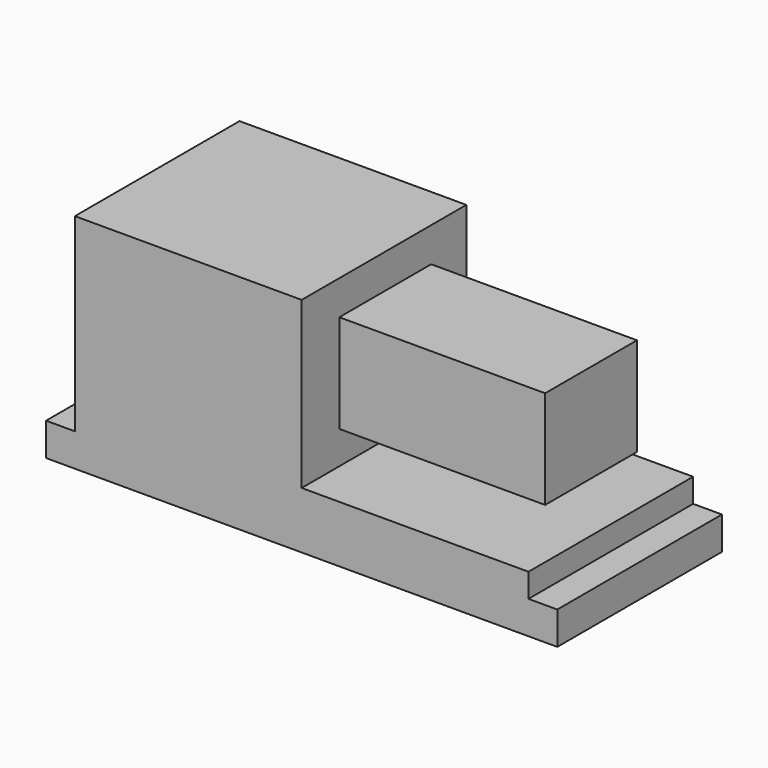
from build123d import *

# Parameters (mm, degrees)
F1_DEPTH = 25
F2_DEPTH = 8
F3_W     = 13.941449
F3_H     = 11.943896
F4_DEPTH = 25


with BuildPart() as f1:
    # F0 (on Front) → F1 (new body)
    with BuildSketch(Plane.XZ):
        with BuildLine():
            Line((-31.05, 4), (-31.05, 0))
            Line((-31.05, 0), (31.05, 0))
            Line((31.05, 0), (31.05, 4))
            Line((31.05, 4), (27.55, 4))
            Line((27.55, 4), (27.55, 6.9))
            Line((27.55, 6.9), (0, 6.9))
            Line((0, 6.9), (0, 27.01417))
            Line((0, 27.01417), (-27.55, 27.01417))
            Line((-27.55, 27.01417), (-27.55, 9.67))
            Line((-27.55, 9.67), (-18.593099, 9.67))
            ThreePointArc((-18.593099, 9.67), (-18.210415, 9.74612), (-17.885992, 9.962893))
            Line((-17.885992, 9.962893), (-11.474443, 16.374443))
            ThreePointArc((-11.474443, 16.374443), (-2.422469, 14.573893), (-7.55, 6.9))
            Line((-7.55, 6.9), (-27.55, 6.9))
            Line((-27.55, 6.9), (-27.55, 4))
            Line((-27.55, 4), (-31.05, 4))
        make_face()
        with BuildLine():
            Line((-27.55, 9.67), (-27.55, 6.9))
            Line((-27.55, 6.9), (-7.55, 6.9))
            ThreePointArc((-7.55, 6.9), (-2.422469, 14.573893), (-11.474443, 16.374443))
            Line((-11.474443, 16.374443), (-17.885992, 9.962893))
            ThreePointArc((-17.885992, 9.962893), (-18.210415, 9.74612), (-18.593099, 9.67))
            Line((-18.593099, 9.67), (-27.55, 9.67))
        make_face()
        with BuildLine():
            Line((-7.55, 8.7), (-14.189087, 8.7))
            ThreePointArc((-14.189087, 8.7), (-15.112967, 9.317317), (-14.896194, 10.407107))
            Line((-14.896194, 10.407107), (-10.20165, 15.10165))
            ThreePointArc((-10.20165, 15.10165), (-4.085452, 13.885063), (-7.55, 8.7))
        make_face(mode=Mode.SUBTRACT)
        with BuildLine():
            ThreePointArc((-14.896194, 10.407107), (-15.112967, 9.317317), (-14.189087, 8.7))
            Line((-14.189087, 8.7), (-7.55, 8.7))
            ThreePointArc((-7.55, 8.7), (-4.085452, 13.885063), (-10.20165, 15.10165))
            Line((-10.20165, 15.10165), (-14.896194, 10.407107))
        make_face()
    extrude(amount=F1_DEPTH)

    # F0 (on Front) → F2 (cut)
    with BuildSketch(Plane.XZ):
        with BuildLine():
            Line((-27.55, 9.67), (-27.55, 6.9))
            Line((-27.55, 6.9), (-7.55, 6.9))
            ThreePointArc((-7.55, 6.9), (-2.422469, 14.573893), (-11.474443, 16.374443))
            Line((-11.474443, 16.374443), (-17.885992, 9.962893))
            ThreePointArc((-17.885992, 9.962893), (-18.210415, 9.74612), (-18.593099, 9.67))
            Line((-18.593099, 9.67), (-27.55, 9.67))
        make_face()
        with BuildLine():
            Line((-7.55, 8.7), (-14.189087, 8.7))
            ThreePointArc((-14.189087, 8.7), (-15.112967, 9.317317), (-14.896194, 10.407107))
            Line((-14.896194, 10.407107), (-10.20165, 15.10165))
            ThreePointArc((-10.20165, 15.10165), (-4.085452, 13.885063), (-7.55, 8.7))
        make_face(mode=Mode.SUBTRACT)
    extrude(amount=F2_DEPTH, mode=Mode.SUBTRACT)

    # F3 (on face) → F4 (join)
    with BuildSketch(Plane.YZ):
        with Locations((-12.311068, 16.862532)):
            Rectangle(F3_W, F3_H)
    extrude(amount=F4_DEPTH)


solid = f1.part
